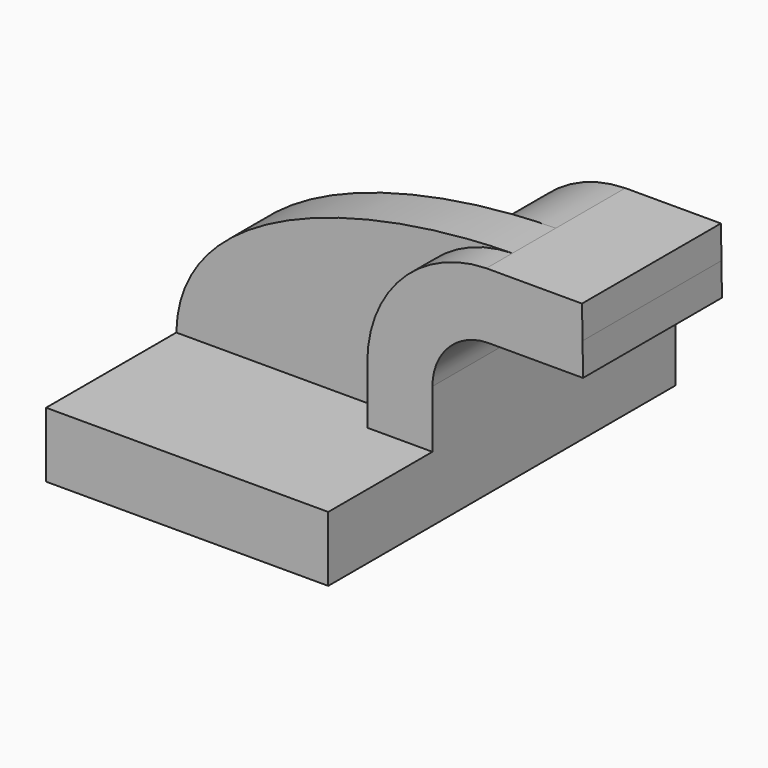
from build123d import *

# Parameters (mm, degrees)
F1_DEPTH = 63.5
F2_DEPTH = 15.875
F3_DEPTH = 25.4


with BuildPart() as f1:
    # F0 (on Front) → F1 (new body, symmetric)
    with BuildSketch(Plane.XZ):
        Polygon((-41.275, 9.525), (-41.275, -9.525), (41.275, -9.525), (41.275, 9.525), (22.225, 9.525), align=None)
    extrude(amount=F1_DEPTH, both=True)

    # F0 (on Front) → F2 (join)
    with BuildSketch(Plane.XZ):
        with BuildLine():
            add(Edge.make_bspline(
                [(-41.275, 9.525), (-40.5575186014, 45.8087362349), (13.0318803713, 61.4552721381), (57.0519533598, 61.9252)],
                knots=[0, 0, 0, 0, 111.4179999689, 111.4179999689, 111.4179999689, 111.4179999689], degree=3))
            Line((-41.275, 9.525), (22.225, 9.525))
            Line((22.225, 9.525), (22.225, 26.3727564465))
            ThreePointArc((22.225, 26.3727564465), (32.3824338056, 51.2569528518), (57.0519533598, 61.9252))
        make_face()
    extrude(amount=F2_DEPTH)

    # F0 (on Front) → F3 (join, symmetric)
    with BuildSketch(Plane.XZ):
        with BuildLine():
            Line((22.225, 9.525), (41.275, 9.525))
            Line((41.275, 9.525), (41.275, 26.3727564465))
            ThreePointArc((41.275, 26.3727564465), (45.935398186, 37.8691487872), (57.2855435312, 42.8752))
            Line((57.2855435312, 42.8752), (59.8077454329, 42.8752))
            Line((59.8077454329, 42.8752), (59.8077454329, 61.9252))
            Line((59.8077454329, 61.9252), (57.0519533598, 61.9252))
            ThreePointArc((57.0519533598, 61.9252), (32.3824338056, 51.2569528518), (22.225, 26.3727564465))
            Line((22.225, 26.3727564465), (22.225, 9.525))
        make_face()
        Polygon((85.0275978446, 61.9252), (59.8077454329, 61.9252), (59.8077454329, 42.8752), (85.327843825, 42.8752), (85.2077454329, 52.4002), align=None)
    extrude(amount=F3_DEPTH, both=True)


solid = f1.part
